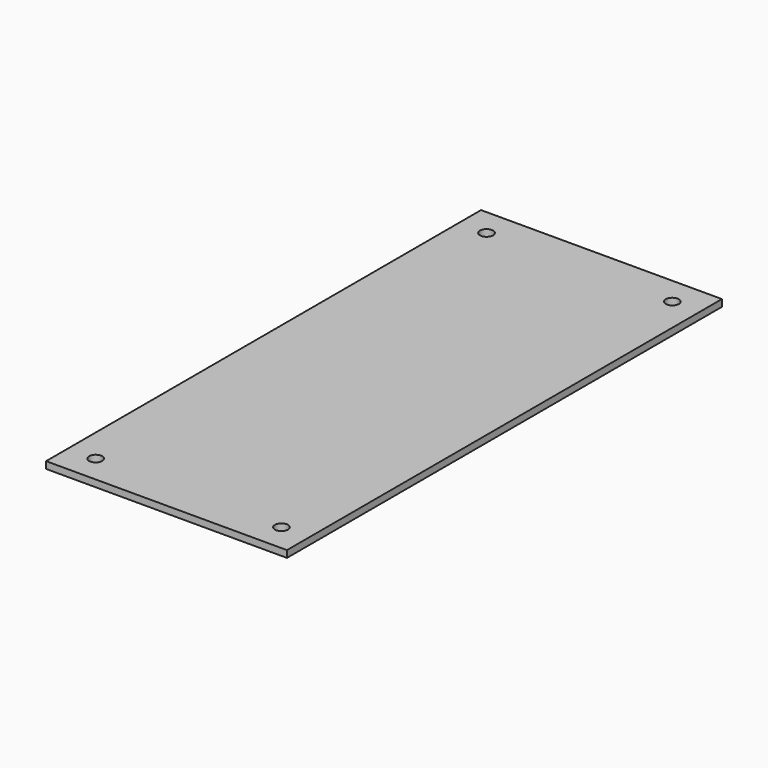
from build123d import *

# Parameters (mm, degrees)
SKETCH010_W      = 4
SKETCH010_H      = 5
EXTRUDE008_DEPTH = 4
SKETCH006_W      = 35
SKETCH006_H      = 79
SKETCH006_R      = 0.95
EXTRUDE004_DEPTH = 1


with BuildPart() as led005:
    # Sketch010 → Extrude008 (new body)
    with BuildSketch(Plane(origin=(-3, 0, 0), x_dir=(0, -1, 0), z_dir=(-1, 0, 0))):
        with Locations((-5, 2.5)):
            Rectangle(SKETCH010_W, SKETCH010_H)
    extrude(amount=-EXTRUDE008_DEPTH)


with BuildPart() as cut004:
    # Sketch006 → Extrude004 (new body)
    with BuildSketch(Plane.XY.offset(-1)):
        with Locations((15.5, 30.5)):
            Rectangle(SKETCH006_W, SKETCH006_H)
        with Locations((2, -5)):
            Circle(SKETCH006_R, mode=Mode.SUBTRACT)
        with Locations((29, -5)):
            Circle(SKETCH006_R, mode=Mode.SUBTRACT)
        with Locations((2, 66)):
            Circle(SKETCH006_R, mode=Mode.SUBTRACT)
        with Locations((29, 66)):
            Circle(SKETCH006_R, mode=Mode.SUBTRACT)
    extrude(amount=EXTRUDE004_DEPTH)

    # Cut004: cut led005
    add(led005.part, mode=Mode.SUBTRACT)


solid = cut004.part
